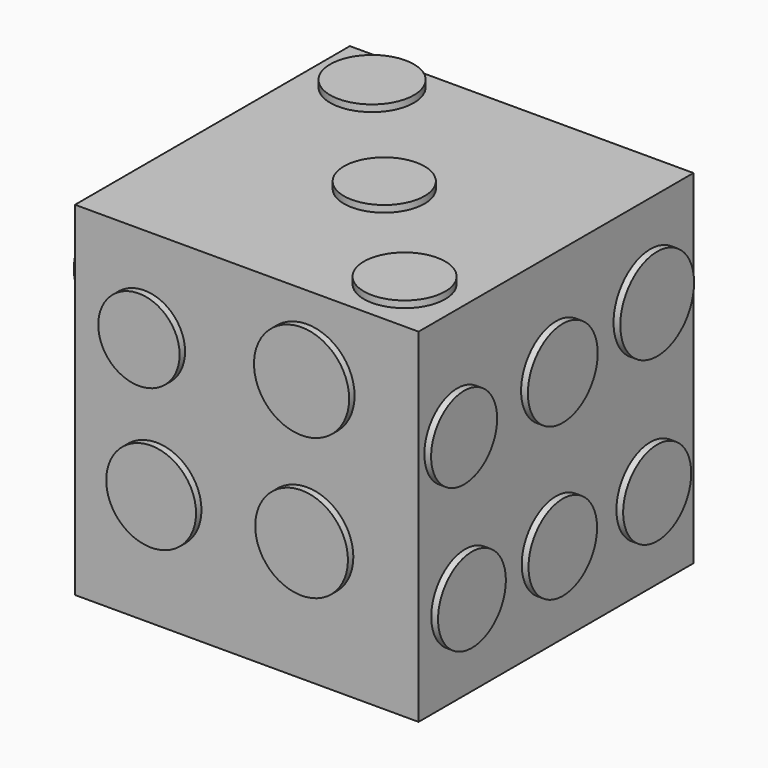
from build123d import *

# Parameters (mm, degrees)
F0_W      = 25.4
F0_H      = 25.4
F1_DEPTH  = 25.4
F2_R      = 3.302351
F3_DEPTH  = 0.5
F4_R      = 3.247176
F4_R_2    = 2.961893
F5_DEPTH  = 0.5
F6_R      = 3.005725
F6_R_2    = 2.980897
F6_R_3    = 3.094584
F7_DEPTH  = 0.5
F8_R      = 3.319933
F8_R_2    = 3.427054
F8_R_3    = 3.00862
F8_R_4    = 3.51795
F9_DEPTH  = 0.5
F10_R     = 3.021029
F10_R_2   = 3.181176
F10_R_3   = 2.727784
F10_R_4   = 3.452089
F10_R_5   = 2.749013
F11_DEPTH = 0.5
F12_R     = 3.134358
F12_R_2   = 3.167686
F12_R_3   = 3.143619
F12_R_4   = 3.049756
F12_R_5   = 3.227009
F12_R_6   = 3.40973
F13_DEPTH = 0.5


with BuildPart() as f1:
    # F0 (on Top) → F1 (new body)
    with BuildSketch(Plane.XY):
        Rectangle(F0_W, F0_H)
    extrude(amount=F1_DEPTH)

    # F2 (on face) → F3 (join)
    with BuildSketch(Plane(origin=(0, 12.7, 0), x_dir=(-1, 0, 0), z_dir=(0, 1, 0))):
        with Locations((0, 12.774332)):
            Circle(F2_R)
    extrude(amount=F3_DEPTH)

    # F4 (on face) → F5 (join)
    with BuildSketch(Plane(origin=(0, 0, 0), x_dir=(1, 0, 0), z_dir=(0, 0, -1))):
        with Locations((0, -5.861166)):
            Circle(F4_R)
        with Locations((0, 6.762884)):
            Circle(F4_R_2)
    extrude(amount=F5_DEPTH)

    # F6 (on face) → F7 (join)
    with BuildSketch(Plane.XY.offset(25.4)):
        with Locations((8.356908, -8.566318)):
            Circle(F6_R)
        Circle(F6_R_2)
        with Locations((-8.475154, 9.468036)):
            Circle(F6_R_3)
    extrude(amount=F7_DEPTH)

    # F8 (on face) → F9 (join)
    with BuildSketch(Plane.XZ.offset(12.7)):
        with Locations((-6.671718, 8.566318)):
            Circle(F8_R)
        with Locations((4.449466, 9.167464)):
            Circle(F8_R_2)
        with Locations((-7.574594, 18.485788)):
            Circle(F8_R_3)
        with Locations((4.449466, 19.689236)):
            Circle(F8_R_4)
    extrude(amount=F9_DEPTH)

    # F10 (on face) → F11 (join)
    with BuildSketch(Plane(origin=(-12.7, 0, 0), x_dir=(0, -1, 0), z_dir=(-1, 0, 0))):
        with Locations((-8.876446, 4.915892)):
            Circle(F10_R)
        with Locations((0, 12.872338)):
            Circle(F10_R_2)
        with Locations((-9.358654, 21.310989)):
            Circle(F10_R_3)
        with Locations((8.724171, 20.82878)):
            Circle(F10_R_4)
        with Locations((8.724171, 5.156996)):
            Circle(F10_R_5)
    extrude(amount=F11_DEPTH)

    # F12 (on face) → F13 (join)
    with BuildSketch(Plane.YZ.offset(12.7)):
        with Locations((-8.394237, 6.362522)):
            Circle(F12_R)
        with Locations((0, 6.362522)):
            Circle(F12_R_2)
        with Locations((8.724171, 6.362522)):
            Circle(F12_R_3)
        with Locations((-9.11755, 17.212216)):
            Circle(F12_R_4)
        with Locations((0, 17.694423)):
            Circle(F12_R_5)
        with Locations((8.724171, 18.658841)):
            Circle(F12_R_6)
    extrude(amount=F13_DEPTH)


solid = f1.part
